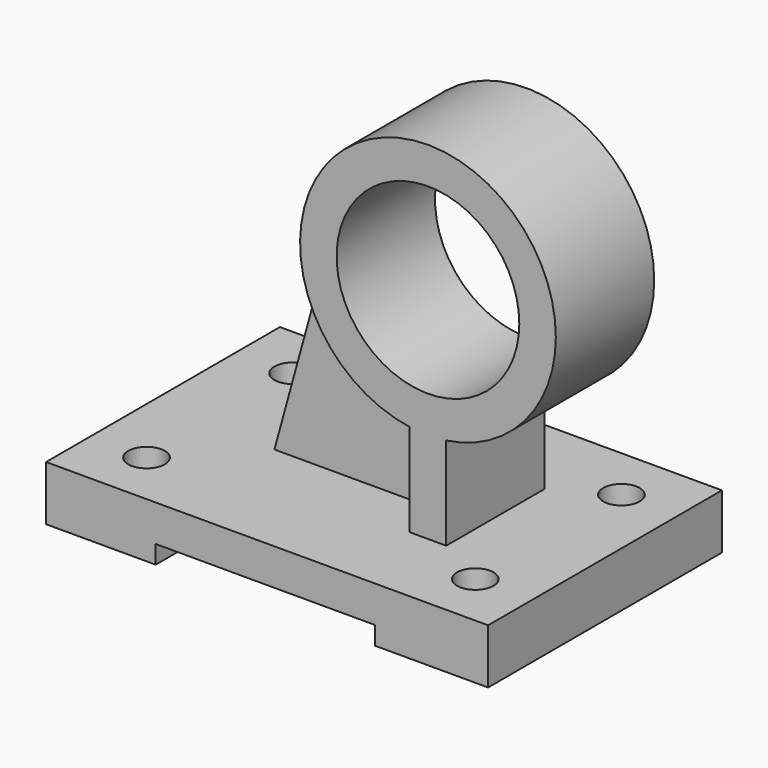
from build123d import *

# Parameters (mm, degrees)
F1_DEPTH  = 80
F2_R      = 5
F3_DEPTH  = 25
F5_DEPTH  = 60
F6_R      = 35
F7_DEPTH  = 33.666907
F8_R      = 25
F9_DEPTH  = 52.6
F11_DEPTH = 25


with BuildPart() as f1:
    # F0 (on Front) → F1 (new body)
    with BuildSketch(Plane.XZ):
        Polygon((121, 0), (0, 0), (0, -15), (30, -15), (30, -10), (90, -10), (90, -15), (121, -15), align=None)
    extrude(amount=F1_DEPTH)

    # F2 (on face) → F3 (cut)
    with BuildSketch(Plane.XY):
        with Locations((15.5, -15)):
            Circle(F2_R)
        with Locations((15.5, -65)):
            Circle(F2_R)
        with Locations((105.5, -65)):
            Circle(F2_R)
        with Locations((105.5, -15)):
            Circle(F2_R)
    extrude(amount=-F3_DEPTH, mode=Mode.SUBTRACT)

    # F4 (on face) → F5 (join)
    with BuildSketch(Plane.XY):
        Polygon((34.5, -45), (81, -45), (81, -56.833453), (91, -56.833453), (91, -45), (91, -35), (91, -23.166547), (81, -23.166547), (81, -35), (34.5, -35), align=None)
    extrude(amount=F5_DEPTH)

    # F6 (on face) → F7 (join, through all)
    with BuildSketch(Plane.XZ.offset(56.833453)):
        with Locations((86, 60)):
            Circle(F6_R)
    extrude(amount=-F7_DEPTH)

    # F8 (on face) → F9 (cut)
    with BuildSketch(Plane.XZ.offset(56.833453)):
        with Locations((86, 60)):
            Circle(F8_R)
    extrude(amount=-F9_DEPTH, mode=Mode.SUBTRACT)

    # F10 (on face) → F11 (cut)
    with BuildSketch(Plane.XZ.offset(45)):
        Polygon((34.5, 60), (34.5, 0), (51, 60), align=None)
    extrude(amount=-F11_DEPTH, mode=Mode.SUBTRACT)


solid = f1.part
